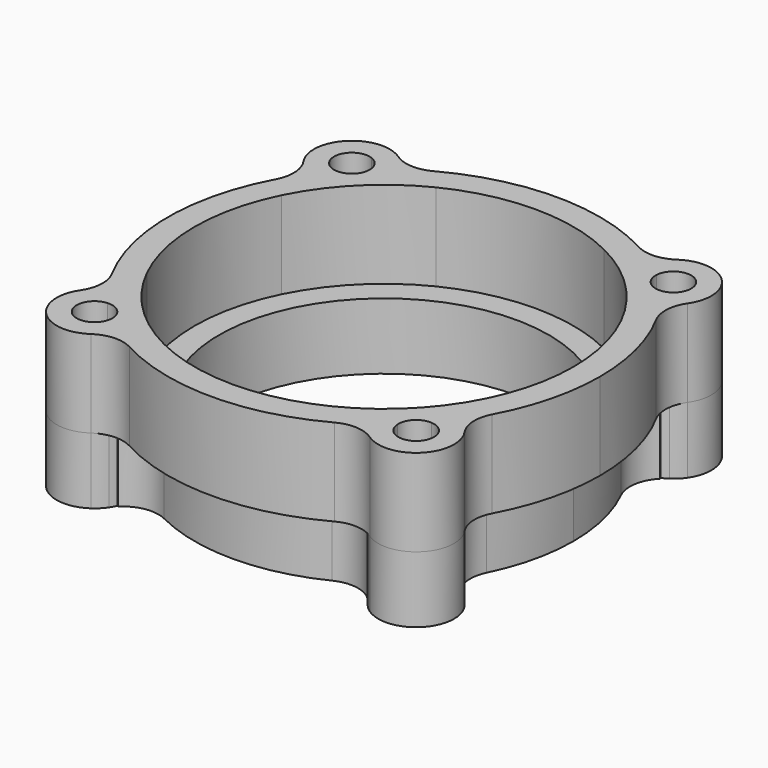
from build123d import *

# Parameters (mm, degrees)
F1_DEPTH = 5.842
F0_R     = 11.049
F2_DEPTH = 4.445


with BuildPart() as f1:
    # F0 (on Top) → F1 (new body)
    with BuildSketch(Plane.XY):
        with BuildLine():
            ThreePointArc((-11.3846753673, -5.6284248935), (-12.7, 0), (-11.3846753673, 5.6284248935))
            ThreePointArc((-11.3846753673, 5.6284248935), (-11.1673143481, 7.0633695607), (-11.8210862389, 8.3590911069))
            ThreePointArc((-11.8210862389, 8.3590911069), (-12.305930723, 7.6273555732), (-12.7455400399, 6.8675827692))
            ThreePointArc((-12.7455400399, 6.8675827692), (-14.478, 0), (-12.7455400399, -6.8675827692))
            ThreePointArc((-12.7455400399, -6.8675827692), (-12.305930723, -7.6273555732), (-11.8210862389, -8.3590911069))
            ThreePointArc((-11.8210862389, -8.3590911069), (-11.1673143481, -7.0633695607), (-11.3846753673, -5.6284248935))
        make_face()
        with BuildLine():
            ThreePointArc((-12.7455400399, 6.8675827692), (-12.305930723, 7.6273555732), (-11.8210862389, 8.3590911069))
            ThreePointArc((-11.8210862389, 8.3590911069), (-11.9992732324, 8.5230896346), (-12.1931563097, 8.6681946794))
            ThreePointArc((-12.1931563097, 8.6681946794), (-12.566298644, 8.9742165733), (-12.8748273305, 9.3452888717))
            ThreePointArc((-12.8748273305, 9.3452888717), (-12.4630799452, 8.1245477758), (-12.7455400399, 6.8675827692))
        make_face()
        with BuildLine():
            ThreePointArc((-5.6284248935, 11.3846753673), (0, 12.7), (5.6284248935, 11.3846753673))
            ThreePointArc((5.6284248935, 11.3846753673), (7.0633695607, 11.1673143481), (8.3590911069, 11.8210862389))
            ThreePointArc((8.3590911069, 11.8210862389), (7.6273555732, 12.305930723), (6.8675827692, 12.7455400399))
            ThreePointArc((6.8675827692, 12.7455400399), (0, 14.478), (-6.8675827692, 12.7455400399))
            ThreePointArc((-6.8675827692, 12.7455400399), (-7.6273555732, 12.305930723), (-8.3590911069, 11.8210862389))
            ThreePointArc((-8.3590911069, 11.8210862389), (-7.0633695607, 11.1673143481), (-5.6284248935, 11.3846753673))
        make_face()
        with BuildLine():
            ThreePointArc((11.3846753673, 5.6284248935), (12.3667978306, 2.8900365773), (12.7, 0))
            ThreePointArc((12.7, 0), (12.3667978306, -2.8900365773), (11.3846753673, -5.6284248935))
            ThreePointArc((11.3846753673, -5.6284248935), (11.1673143481, -7.0633695607), (11.8210862389, -8.3590911069))
            ThreePointArc((11.8210862389, -8.3590911069), (12.305930723, -7.6273555732), (12.7455400399, -6.8675827692))
            ThreePointArc((12.7455400399, -6.8675827692), (14.0382052396, -3.5413666361), (14.478, 0))
            ThreePointArc((14.478, 0), (14.0382052396, 3.5413666361), (12.7455400399, 6.8675827692))
            ThreePointArc((12.7455400399, 6.8675827692), (12.305930723, 7.6273555732), (11.8210862389, 8.3590911069))
            ThreePointArc((11.8210862389, 8.3590911069), (11.1673143481, 7.0633695607), (11.3846753673, 5.6284248935))
        make_face()
        with BuildLine():
            ThreePointArc((-8.6681946794, -12.1931563097), (-8.5423054226, -11.9849575881), (-8.4369136122, -11.7656692415))
            ThreePointArc((-8.4369136122, -11.7656692415), (-9.0224779178, -11.3228696108), (-9.5848435658, -10.8509565394))
            ThreePointArc((-9.5848435658, -10.8509565394), (-11.6204514207, -11.6204514207), (-10.8509565394, -9.5848435658))
            ThreePointArc((-10.8509565394, -9.5848435658), (-11.3228696108, -9.0224779178), (-11.7656692415, -8.4369136122))
            ThreePointArc((-11.7656692415, -8.4369136122), (-11.9849575881, -8.5423054226), (-12.1931563097, -8.6681946794))
            ThreePointArc((-12.1931563097, -8.6681946794), (-12.566298644, -8.9742165733), (-12.8748273305, -9.3452888717))
            ThreePointArc((-12.8748273305, -9.3452888717), (-12.5723585695, -12.5723585695), (-9.3452888717, -12.8748273305))
            ThreePointArc((-9.3452888717, -12.8748273305), (-8.9742165733, -12.566298644), (-8.6681946794, -12.1931563097))
        make_face()
        with BuildLine():
            ThreePointArc((8.3590911069, -11.8210862389), (7.0633695607, -11.1673143481), (5.6284248935, -11.3846753673))
            ThreePointArc((5.6284248935, -11.3846753673), (0, -12.7), (-5.6284248935, -11.3846753673))
            ThreePointArc((-5.6284248935, -11.3846753673), (-7.0633695607, -11.1673143481), (-8.3590911069, -11.8210862389))
            ThreePointArc((-8.3590911069, -11.8210862389), (-7.6273555732, -12.305930723), (-6.8675827692, -12.7455400399))
            ThreePointArc((-6.8675827692, -12.7455400399), (0, -14.478), (6.8675827692, -12.7455400399))
            ThreePointArc((6.8675827692, -12.7455400399), (7.6273555732, -12.305930723), (8.3590911069, -11.8210862389))
        make_face()
        with BuildLine():
            ThreePointArc((8.6681946794, -12.1931563097), (8.5230896346, -11.9992732324), (8.3590911069, -11.8210862389))
            ThreePointArc((8.3590911069, -11.8210862389), (7.6273555732, -12.305930723), (6.8675827692, -12.7455400399))
            ThreePointArc((6.8675827692, -12.7455400399), (8.1245477758, -12.4630799452), (9.3452888717, -12.8748273305))
            ThreePointArc((9.3452888717, -12.8748273305), (8.9742165733, -12.566298644), (8.6681946794, -12.1931563097))
        make_face()
        with BuildLine():
            ThreePointArc((-6.8675827692, -12.7455400399), (-7.6273555732, -12.305930723), (-8.3590911069, -11.8210862389))
            ThreePointArc((-8.3590911069, -11.8210862389), (-8.5230896346, -11.9992732324), (-8.6681946794, -12.1931563097))
            ThreePointArc((-8.6681946794, -12.1931563097), (-8.9742165733, -12.566298644), (-9.3452888717, -12.8748273305))
            ThreePointArc((-9.3452888717, -12.8748273305), (-8.1245477758, -12.4630799452), (-6.8675827692, -12.7455400399))
        make_face()
        with BuildLine():
            ThreePointArc((11.8210862389, -8.3590911069), (11.1673143481, -7.0633695607), (11.3846753673, -5.6284248935))
            ThreePointArc((11.3846753673, -5.6284248935), (8.9802561211, -8.9802561211), (5.6284248935, -11.3846753673))
            ThreePointArc((5.6284248935, -11.3846753673), (7.0633695607, -11.1673143481), (8.3590911069, -11.8210862389))
            ThreePointArc((8.3590911069, -11.8210862389), (8.3980480703, -11.7934419322), (8.4369136122, -11.7656692415))
            ThreePointArc((8.4369136122, -11.7656692415), (9.0224779178, -11.3228696108), (9.5848435658, -10.8509565394))
            ThreePointArc((9.5848435658, -10.8509565394), (9.9321632699, -9.9321632699), (10.8509565394, -9.5848435658))
            ThreePointArc((10.8509565394, -9.5848435658), (11.3228696108, -9.0224779178), (11.7656692415, -8.4369136122))
            ThreePointArc((11.7656692415, -8.4369136122), (11.7934419322, -8.3980480703), (11.8210862389, -8.3590911069))
        make_face()
        with BuildLine():
            ThreePointArc((11.8210862389, -8.3590911069), (11.1673143481, -7.0633695607), (11.3846753673, -5.6284248935))
            ThreePointArc((11.3846753673, -5.6284248935), (8.9802561211, -8.9802561211), (5.6284248935, -11.3846753673))
            ThreePointArc((5.6284248935, -11.3846753673), (7.0633695607, -11.1673143481), (8.3590911069, -11.8210862389))
            ThreePointArc((8.3590911069, -11.8210862389), (8.3980480703, -11.7934419322), (8.4369136122, -11.7656692415))
            ThreePointArc((8.4369136122, -11.7656692415), (9.0224779178, -11.3228696108), (9.5848435658, -10.8509565394))
            ThreePointArc((9.5848435658, -10.8509565394), (9.9321632699, -9.9321632699), (10.8509565394, -9.5848435658))
            ThreePointArc((10.8509565394, -9.5848435658), (11.3228696108, -9.0224779178), (11.7656692415, -8.4369136122))
            ThreePointArc((11.7656692415, -8.4369136122), (11.7934419322, -8.3980480703), (11.8210862389, -8.3590911069))
        make_face()
        with BuildLine():
            ThreePointArc((-8.3590911069, -11.8210862389), (-7.0633695607, -11.1673143481), (-5.6284248935, -11.3846753673))
            ThreePointArc((-5.6284248935, -11.3846753673), (-8.9802561211, -8.9802561211), (-11.3846753673, -5.6284248935))
            ThreePointArc((-11.3846753673, -5.6284248935), (-11.1673143481, -7.0633695607), (-11.8210862389, -8.3590911069))
            ThreePointArc((-11.8210862389, -8.3590911069), (-11.7934419322, -8.3980480703), (-11.7656692415, -8.4369136122))
            ThreePointArc((-11.7656692415, -8.4369136122), (-11.3228696108, -9.0224779178), (-10.8509565394, -9.5848435658))
            ThreePointArc((-10.8509565394, -9.5848435658), (-9.9589817577, -9.9061709629), (-9.5825073453, -10.7763073453))
            ThreePointArc((-9.5825073453, -10.7763073453), (-9.5830915434, -10.8136502164), (-9.5848435658, -10.8509565394))
            ThreePointArc((-9.5848435658, -10.8509565394), (-9.0224779178, -11.3228696108), (-8.4369136122, -11.7656692415))
            ThreePointArc((-8.4369136122, -11.7656692415), (-8.3980480703, -11.7934419322), (-8.3590911069, -11.8210862389))
        make_face()
        with BuildLine():
            ThreePointArc((-8.3590911069, -11.8210862389), (-7.0633695607, -11.1673143481), (-5.6284248935, -11.3846753673))
            ThreePointArc((-5.6284248935, -11.3846753673), (-8.9802561211, -8.9802561211), (-11.3846753673, -5.6284248935))
            ThreePointArc((-11.3846753673, -5.6284248935), (-11.1673143481, -7.0633695607), (-11.8210862389, -8.3590911069))
            ThreePointArc((-11.8210862389, -8.3590911069), (-11.7934419322, -8.3980480703), (-11.7656692415, -8.4369136122))
            ThreePointArc((-11.7656692415, -8.4369136122), (-11.3228696108, -9.0224779178), (-10.8509565394, -9.5848435658))
            ThreePointArc((-10.8509565394, -9.5848435658), (-9.9589817577, -9.9061709629), (-9.5825073453, -10.7763073453))
            ThreePointArc((-9.5825073453, -10.7763073453), (-9.5830915434, -10.8136502164), (-9.5848435658, -10.8509565394))
            ThreePointArc((-9.5848435658, -10.8509565394), (-9.0224779178, -11.3228696108), (-8.4369136122, -11.7656692415))
            ThreePointArc((-8.4369136122, -11.7656692415), (-8.3980480703, -11.7934419322), (-8.3590911069, -11.8210862389))
        make_face()
        with BuildLine():
            ThreePointArc((-8.3590911069, -11.8210862389), (-7.0633695607, -11.1673143481), (-5.6284248935, -11.3846753673))
            ThreePointArc((-5.6284248935, -11.3846753673), (-8.9802561211, -8.9802561211), (-11.3846753673, -5.6284248935))
            ThreePointArc((-11.3846753673, -5.6284248935), (-11.1673143481, -7.0633695607), (-11.8210862389, -8.3590911069))
            ThreePointArc((-11.8210862389, -8.3590911069), (-11.7934419322, -8.3980480703), (-11.7656692415, -8.4369136122))
            ThreePointArc((-11.7656692415, -8.4369136122), (-11.3228696108, -9.0224779178), (-10.8509565394, -9.5848435658))
            ThreePointArc((-10.8509565394, -9.5848435658), (-9.9589817577, -9.9061709629), (-9.5825073453, -10.7763073453))
            ThreePointArc((-9.5825073453, -10.7763073453), (-9.5830915434, -10.8136502164), (-9.5848435658, -10.8509565394))
            ThreePointArc((-9.5848435658, -10.8509565394), (-9.0224779178, -11.3228696108), (-8.4369136122, -11.7656692415))
            ThreePointArc((-8.4369136122, -11.7656692415), (-8.3980480703, -11.7934419322), (-8.3590911069, -11.8210862389))
        make_face()
        with BuildLine():
            ThreePointArc((-11.3846753673, 5.6284248935), (-8.9802561211, 8.9802561211), (-5.6284248935, 11.3846753673))
            ThreePointArc((-5.6284248935, 11.3846753673), (-7.0633695607, 11.1673143481), (-8.3590911069, 11.8210862389))
            ThreePointArc((-8.3590911069, 11.8210862389), (-8.3980480703, 11.7934419322), (-8.4369136122, 11.7656692415))
            ThreePointArc((-8.4369136122, 11.7656692415), (-9.0224779178, 11.3228696108), (-9.5848435658, 10.8509565394))
            ThreePointArc((-9.5848435658, 10.8509565394), (-9.5830915434, 10.8136502164), (-9.5825073453, 10.7763073453))
            ThreePointArc((-9.5825073453, 10.7763073453), (-9.9589817577, 9.9061709629), (-10.8509565394, 9.5848435658))
            ThreePointArc((-10.8509565394, 9.5848435658), (-11.3228696108, 9.0224779178), (-11.7656692415, 8.4369136122))
            ThreePointArc((-11.7656692415, 8.4369136122), (-11.7934419322, 8.3980480703), (-11.8210862389, 8.3590911069))
            ThreePointArc((-11.8210862389, 8.3590911069), (-11.1673143481, 7.0633695607), (-11.3846753673, 5.6284248935))
        make_face()
        with BuildLine():
            ThreePointArc((-11.3846753673, 5.6284248935), (-8.9802561211, 8.9802561211), (-5.6284248935, 11.3846753673))
            ThreePointArc((-5.6284248935, 11.3846753673), (-7.0633695607, 11.1673143481), (-8.3590911069, 11.8210862389))
            ThreePointArc((-8.3590911069, 11.8210862389), (-8.3980480703, 11.7934419322), (-8.4369136122, 11.7656692415))
            ThreePointArc((-8.4369136122, 11.7656692415), (-9.0224779178, 11.3228696108), (-9.5848435658, 10.8509565394))
            ThreePointArc((-9.5848435658, 10.8509565394), (-9.5830915434, 10.8136502164), (-9.5825073453, 10.7763073453))
            ThreePointArc((-9.5825073453, 10.7763073453), (-9.9589817577, 9.9061709629), (-10.8509565394, 9.5848435658))
            ThreePointArc((-10.8509565394, 9.5848435658), (-11.3228696108, 9.0224779178), (-11.7656692415, 8.4369136122))
            ThreePointArc((-11.7656692415, 8.4369136122), (-11.7934419322, 8.3980480703), (-11.8210862389, 8.3590911069))
            ThreePointArc((-11.8210862389, 8.3590911069), (-11.1673143481, 7.0633695607), (-11.3846753673, 5.6284248935))
        make_face()
        with BuildLine():
            ThreePointArc((-11.3846753673, 5.6284248935), (-8.9802561211, 8.9802561211), (-5.6284248935, 11.3846753673))
            ThreePointArc((-5.6284248935, 11.3846753673), (-7.0633695607, 11.1673143481), (-8.3590911069, 11.8210862389))
            ThreePointArc((-8.3590911069, 11.8210862389), (-8.3980480703, 11.7934419322), (-8.4369136122, 11.7656692415))
            ThreePointArc((-8.4369136122, 11.7656692415), (-9.0224779178, 11.3228696108), (-9.5848435658, 10.8509565394))
            ThreePointArc((-9.5848435658, 10.8509565394), (-9.5830915434, 10.8136502164), (-9.5825073453, 10.7763073453))
            ThreePointArc((-9.5825073453, 10.7763073453), (-9.9589817577, 9.9061709629), (-10.8509565394, 9.5848435658))
            ThreePointArc((-10.8509565394, 9.5848435658), (-11.3228696108, 9.0224779178), (-11.7656692415, 8.4369136122))
            ThreePointArc((-11.7656692415, 8.4369136122), (-11.7934419322, 8.3980480703), (-11.8210862389, 8.3590911069))
            ThreePointArc((-11.8210862389, 8.3590911069), (-11.1673143481, 7.0633695607), (-11.3846753673, 5.6284248935))
        make_face()
        with BuildLine():
            ThreePointArc((5.6284248935, 11.3846753673), (8.9802561211, 8.9802561211), (11.3846753673, 5.6284248935))
            ThreePointArc((11.3846753673, 5.6284248935), (11.1673143481, 7.0633695607), (11.8210862389, 8.3590911069))
            ThreePointArc((11.8210862389, 8.3590911069), (11.7934419322, 8.3980480703), (11.7656692415, 8.4369136122))
            ThreePointArc((11.7656692415, 8.4369136122), (11.3228696108, 9.0224779178), (10.8509565394, 9.5848435658))
            ThreePointArc((10.8509565394, 9.5848435658), (9.9321632699, 9.9321632699), (9.5848435658, 10.8509565394))
            ThreePointArc((9.5848435658, 10.8509565394), (9.0224779178, 11.3228696108), (8.4369136122, 11.7656692415))
            ThreePointArc((8.4369136122, 11.7656692415), (8.3980480703, 11.7934419322), (8.3590911069, 11.8210862389))
            ThreePointArc((8.3590911069, 11.8210862389), (7.0633695607, 11.1673143481), (5.6284248935, 11.3846753673))
        make_face()
        with BuildLine():
            ThreePointArc((12.7455400399, -6.8675827692), (12.305930723, -7.6273555732), (11.8210862389, -8.3590911069))
            ThreePointArc((11.8210862389, -8.3590911069), (11.9992732324, -8.5230896346), (12.1931563097, -8.6681946794))
            ThreePointArc((12.1931563097, -8.6681946794), (12.566298644, -8.9742165733), (12.8748273305, -9.3452888717))
            ThreePointArc((12.8748273305, -9.3452888717), (12.4630799452, -8.1245477758), (12.7455400399, -6.8675827692))
        make_face()
        with BuildLine():
            ThreePointArc((12.1931563097, -8.6681946794), (11.9992732324, -8.5230896346), (11.8210862389, -8.3590911069))
            ThreePointArc((11.8210862389, -8.3590911069), (11.7934419322, -8.3980480703), (11.7656692415, -8.4369136122))
            ThreePointArc((11.7656692415, -8.4369136122), (11.9849575881, -8.5423054226), (12.1931563097, -8.6681946794))
        make_face()
        with BuildLine():
            ThreePointArc((8.4369136122, -11.7656692415), (8.3980480703, -11.7934419322), (8.3590911069, -11.8210862389))
            ThreePointArc((8.3590911069, -11.8210862389), (8.5230896346, -11.9992732324), (8.6681946794, -12.1931563097))
            ThreePointArc((8.6681946794, -12.1931563097), (8.5423054226, -11.9849575881), (8.4369136122, -11.7656692415))
        make_face()
        with BuildLine():
            ThreePointArc((12.1931563097, -8.6681946794), (11.9849575881, -8.5423054226), (11.7656692415, -8.4369136122))
            ThreePointArc((11.7656692415, -8.4369136122), (11.3228696108, -9.0224779178), (10.8509565394, -9.5848435658))
            ThreePointArc((10.8509565394, -9.5848435658), (11.6464437277, -9.9589817577), (11.9701073453, -10.7763073453))
            ThreePointArc((11.9701073453, -10.7763073453), (10.8136502164, -11.9695231472), (9.5848435658, -10.8509565394))
            ThreePointArc((9.5848435658, -10.8509565394), (9.0224779178, -11.3228696108), (8.4369136122, -11.7656692415))
            ThreePointArc((8.4369136122, -11.7656692415), (8.5423054226, -11.9849575881), (8.6681946794, -12.1931563097))
            ThreePointArc((8.6681946794, -12.1931563097), (8.9742165733, -12.566298644), (9.3452888717, -12.8748273305))
            ThreePointArc((9.3452888717, -12.8748273305), (12.5723585695, -12.5723585695), (12.8748273305, -9.3452888717))
            ThreePointArc((12.8748273305, -9.3452888717), (12.566298644, -8.9742165733), (12.1931563097, -8.6681946794))
        make_face()
        with BuildLine():
            ThreePointArc((-12.1931563097, -8.6681946794), (-11.9992732324, -8.5230896346), (-11.8210862389, -8.3590911069))
            ThreePointArc((-11.8210862389, -8.3590911069), (-12.305930723, -7.6273555732), (-12.7455400399, -6.8675827692))
            ThreePointArc((-12.7455400399, -6.8675827692), (-12.4630799452, -8.1245477758), (-12.8748273305, -9.3452888717))
            ThreePointArc((-12.8748273305, -9.3452888717), (-12.566298644, -8.9742165733), (-12.1931563097, -8.6681946794))
        make_face()
        with BuildLine():
            ThreePointArc((-11.7656692415, -8.4369136122), (-11.7934419322, -8.3980480703), (-11.8210862389, -8.3590911069))
            ThreePointArc((-11.8210862389, -8.3590911069), (-11.9992732324, -8.5230896346), (-12.1931563097, -8.6681946794))
            ThreePointArc((-12.1931563097, -8.6681946794), (-11.9849575881, -8.5423054226), (-11.7656692415, -8.4369136122))
        make_face()
        with BuildLine():
            ThreePointArc((-8.6681946794, -12.1931563097), (-8.5230896346, -11.9992732324), (-8.3590911069, -11.8210862389))
            ThreePointArc((-8.3590911069, -11.8210862389), (-8.3980480703, -11.7934419322), (-8.4369136122, -11.7656692415))
            ThreePointArc((-8.4369136122, -11.7656692415), (-8.5423054226, -11.9849575881), (-8.6681946794, -12.1931563097))
        make_face()
        with BuildLine():
            ThreePointArc((-9.5848435658, 10.8509565394), (-9.0224779178, 11.3228696108), (-8.4369136122, 11.7656692415))
            ThreePointArc((-8.4369136122, 11.7656692415), (-8.5423054226, 11.9849575881), (-8.6681946794, 12.1931563097))
            ThreePointArc((-8.6681946794, 12.1931563097), (-8.9742165733, 12.566298644), (-9.3452888717, 12.8748273305))
            Line((-9.3452888717, 12.8748273305), (-10.3346938945, 11.8854223078))
            ThreePointArc((-10.3346938945, 11.8854223078), (-9.809733413, 11.4769451072), (-9.5848435658, 10.8509565394))
        make_face()
        with BuildLine():
            ThreePointArc((-8.4369136122, 11.7656692415), (-8.3980480703, 11.7934419322), (-8.3590911069, 11.8210862389))
            ThreePointArc((-8.3590911069, 11.8210862389), (-8.5230896346, 11.9992732324), (-8.6681946794, 12.1931563097))
            ThreePointArc((-8.6681946794, 12.1931563097), (-8.5423054226, 11.9849575881), (-8.4369136122, 11.7656692415))
        make_face()
        with BuildLine():
            ThreePointArc((-8.6681946794, 12.1931563097), (-8.5230896346, 11.9992732324), (-8.3590911069, 11.8210862389))
            ThreePointArc((-8.3590911069, 11.8210862389), (-7.6273555732, 12.305930723), (-6.8675827692, 12.7455400399))
            ThreePointArc((-6.8675827692, 12.7455400399), (-8.1245477758, 12.4630799452), (-9.3452888717, 12.8748273305))
            ThreePointArc((-9.3452888717, 12.8748273305), (-8.9742165733, 12.566298644), (-8.6681946794, 12.1931563097))
        make_face()
        with BuildLine():
            ThreePointArc((-12.1931563097, 8.6681946794), (-11.9992732324, 8.5230896346), (-11.8210862389, 8.3590911069))
            ThreePointArc((-11.8210862389, 8.3590911069), (-11.7934419322, 8.3980480703), (-11.7656692415, 8.4369136122))
            ThreePointArc((-11.7656692415, 8.4369136122), (-11.9849575881, 8.5423054226), (-12.1931563097, 8.6681946794))
        make_face()
        with BuildLine():
            ThreePointArc((6.8675827692, 12.7455400399), (7.6273555732, 12.305930723), (8.3590911069, 11.8210862389))
            ThreePointArc((8.3590911069, 11.8210862389), (8.5230896346, 11.9992732324), (8.6681946794, 12.1931563097))
            ThreePointArc((8.6681946794, 12.1931563097), (8.9742165733, 12.566298644), (9.3452888717, 12.8748273305))
            ThreePointArc((9.3452888717, 12.8748273305), (8.1245477758, 12.4630799452), (6.8675827692, 12.7455400399))
        make_face()
        with BuildLine():
            ThreePointArc((8.6681946794, 12.1931563097), (8.5230896346, 11.9992732324), (8.3590911069, 11.8210862389))
            ThreePointArc((8.3590911069, 11.8210862389), (8.3980480703, 11.7934419322), (8.4369136122, 11.7656692415))
            ThreePointArc((8.4369136122, 11.7656692415), (8.5423054226, 11.9849575881), (8.6681946794, 12.1931563097))
        make_face()
        with BuildLine():
            ThreePointArc((-12.1931563097, 8.6681946794), (-11.9992732324, 8.5230896346), (-11.8210862389, 8.3590911069))
            ThreePointArc((-11.8210862389, 8.3590911069), (-11.7934419322, 8.3980480703), (-11.7656692415, 8.4369136122))
            ThreePointArc((-11.7656692415, 8.4369136122), (-11.9849575881, 8.5423054226), (-12.1931563097, 8.6681946794))
        make_face()
        with BuildLine():
            ThreePointArc((-8.6681946794, -12.1931563097), (-8.5230896346, -11.9992732324), (-8.3590911069, -11.8210862389))
            ThreePointArc((-8.3590911069, -11.8210862389), (-8.3980480703, -11.7934419322), (-8.4369136122, -11.7656692415))
            ThreePointArc((-8.4369136122, -11.7656692415), (-8.5423054226, -11.9849575881), (-8.6681946794, -12.1931563097))
        make_face()
        with BuildLine():
            ThreePointArc((12.1931563097, -8.6681946794), (11.9992732324, -8.5230896346), (11.8210862389, -8.3590911069))
            ThreePointArc((11.8210862389, -8.3590911069), (11.7934419322, -8.3980480703), (11.7656692415, -8.4369136122))
            ThreePointArc((11.7656692415, -8.4369136122), (11.9849575881, -8.5423054226), (12.1931563097, -8.6681946794))
        make_face()
        with BuildLine():
            ThreePointArc((11.7656692415, 8.4369136122), (11.7934419322, 8.3980480703), (11.8210862389, 8.3590911069))
            ThreePointArc((11.8210862389, 8.3590911069), (11.9992732324, 8.5230896346), (12.1931563097, 8.6681946794))
            ThreePointArc((12.1931563097, 8.6681946794), (11.9849575881, 8.5423054226), (11.7656692415, 8.4369136122))
        make_face()
        with BuildLine():
            ThreePointArc((12.1931563097, 8.6681946794), (11.9992732324, 8.5230896346), (11.8210862389, 8.3590911069))
            ThreePointArc((11.8210862389, 8.3590911069), (12.305930723, 7.6273555732), (12.7455400399, 6.8675827692))
            ThreePointArc((12.7455400399, 6.8675827692), (12.4630799452, 8.1245477758), (12.8748273305, 9.3452888717))
            ThreePointArc((12.8748273305, 9.3452888717), (12.566298644, 8.9742165733), (12.1931563097, 8.6681946794))
        make_face()
        with BuildLine():
            Line((-10.3346938945, 11.8854223078), (-9.3452888717, 12.8748273305))
            ThreePointArc((-9.3452888717, 12.8748273305), (-12.5723585695, 12.5723585695), (-12.8748273305, 9.3452888717))
            Line((-12.8748273305, 9.3452888717), (-11.8854223078, 10.3346938945))
            ThreePointArc((-11.8854223078, 10.3346938945), (-11.6204514207, 11.6204514207), (-10.3346938945, 11.8854223078))
        make_face()
        with BuildLine():
            ThreePointArc((-12.1931563097, 8.6681946794), (-11.9849575881, 8.5423054226), (-11.7656692415, 8.4369136122))
            ThreePointArc((-11.7656692415, 8.4369136122), (-11.3228696108, 9.0224779178), (-10.8509565394, 9.5848435658))
            ThreePointArc((-10.8509565394, 9.5848435658), (-11.4769451072, 9.809733413), (-11.8854223078, 10.3346938945))
            Line((-11.8854223078, 10.3346938945), (-12.8748273305, 9.3452888717))
            ThreePointArc((-12.8748273305, 9.3452888717), (-12.566298644, 8.9742165733), (-12.1931563097, 8.6681946794))
        make_face()
        with BuildLine():
            ThreePointArc((10.8509565394, 9.5848435658), (11.3228696108, 9.0224779178), (11.7656692415, 8.4369136122))
            ThreePointArc((11.7656692415, 8.4369136122), (11.9849575881, 8.5423054226), (12.1931563097, 8.6681946794))
            ThreePointArc((12.1931563097, 8.6681946794), (12.566298644, 8.9742165733), (12.8748273305, 9.3452888717))
            ThreePointArc((12.8748273305, 9.3452888717), (12.5723585695, 12.5723585695), (9.3452888717, 12.8748273305))
            ThreePointArc((9.3452888717, 12.8748273305), (8.9742165733, 12.566298644), (8.6681946794, 12.1931563097))
            ThreePointArc((8.6681946794, 12.1931563097), (8.5423054226, 11.9849575881), (8.4369136122, 11.7656692415))
            ThreePointArc((8.4369136122, 11.7656692415), (9.0224779178, 11.3228696108), (9.5848435658, 10.8509565394))
            ThreePointArc((9.5848435658, 10.8509565394), (10.8136502164, 11.9695231472), (11.9701073453, 10.7763073453))
            ThreePointArc((11.9701073453, 10.7763073453), (11.6464437277, 9.9589817577), (10.8509565394, 9.5848435658))
        make_face()
    extrude(amount=F1_DEPTH)


with BuildPart() as f2:
    # F0 (on Top) → F2 (new body)
    with BuildSketch(Plane.XY):
        with BuildLine():
            ThreePointArc((-9.5848435658, 10.8509565394), (-9.0224779178, 11.3228696108), (-8.4369136122, 11.7656692415))
            ThreePointArc((-8.4369136122, 11.7656692415), (-8.5423054226, 11.9849575881), (-8.6681946794, 12.1931563097))
            ThreePointArc((-8.6681946794, 12.1931563097), (-8.9742165733, 12.566298644), (-9.3452888717, 12.8748273305))
            Line((-9.3452888717, 12.8748273305), (-10.3346938945, 11.8854223078))
            ThreePointArc((-10.3346938945, 11.8854223078), (-9.809733413, 11.4769451072), (-9.5848435658, 10.8509565394))
        make_face()
        with BuildLine():
            ThreePointArc((-8.6681946794, -12.1931563097), (-8.5423054226, -11.9849575881), (-8.4369136122, -11.7656692415))
            ThreePointArc((-8.4369136122, -11.7656692415), (-9.0224779178, -11.3228696108), (-9.5848435658, -10.8509565394))
            ThreePointArc((-9.5848435658, -10.8509565394), (-11.6204514207, -11.6204514207), (-10.8509565394, -9.5848435658))
            ThreePointArc((-10.8509565394, -9.5848435658), (-11.3228696108, -9.0224779178), (-11.7656692415, -8.4369136122))
            ThreePointArc((-11.7656692415, -8.4369136122), (-11.9849575881, -8.5423054226), (-12.1931563097, -8.6681946794))
            ThreePointArc((-12.1931563097, -8.6681946794), (-12.566298644, -8.9742165733), (-12.8748273305, -9.3452888717))
            ThreePointArc((-12.8748273305, -9.3452888717), (-12.5723585695, -12.5723585695), (-9.3452888717, -12.8748273305))
            ThreePointArc((-9.3452888717, -12.8748273305), (-8.9742165733, -12.566298644), (-8.6681946794, -12.1931563097))
        make_face()
        with BuildLine():
            ThreePointArc((12.1931563097, -8.6681946794), (11.9849575881, -8.5423054226), (11.7656692415, -8.4369136122))
            ThreePointArc((11.7656692415, -8.4369136122), (11.3228696108, -9.0224779178), (10.8509565394, -9.5848435658))
            ThreePointArc((10.8509565394, -9.5848435658), (11.6464437277, -9.9589817577), (11.9701073453, -10.7763073453))
            ThreePointArc((11.9701073453, -10.7763073453), (10.8136502164, -11.9695231472), (9.5848435658, -10.8509565394))
            ThreePointArc((9.5848435658, -10.8509565394), (9.0224779178, -11.3228696108), (8.4369136122, -11.7656692415))
            ThreePointArc((8.4369136122, -11.7656692415), (8.5423054226, -11.9849575881), (8.6681946794, -12.1931563097))
            ThreePointArc((8.6681946794, -12.1931563097), (8.9742165733, -12.566298644), (9.3452888717, -12.8748273305))
            ThreePointArc((9.3452888717, -12.8748273305), (12.5723585695, -12.5723585695), (12.8748273305, -9.3452888717))
            ThreePointArc((12.8748273305, -9.3452888717), (12.566298644, -8.9742165733), (12.1931563097, -8.6681946794))
        make_face()
        with BuildLine():
            ThreePointArc((11.3846753673, -5.6284248935), (12.3667978306, -2.8900365773), (12.7, 0))
            ThreePointArc((12.7, 0), (12.3667978306, 2.8900365773), (11.3846753673, 5.6284248935))
            ThreePointArc((11.3846753673, 5.6284248935), (8.9802561211, 8.9802561211), (5.6284248935, 11.3846753673))
            ThreePointArc((5.6284248935, 11.3846753673), (0, 12.7), (-5.6284248935, 11.3846753673))
            ThreePointArc((-5.6284248935, 11.3846753673), (-8.9802561211, 8.9802561211), (-11.3846753673, 5.6284248935))
            ThreePointArc((-11.3846753673, 5.6284248935), (-12.7, 0), (-11.3846753673, -5.6284248935))
            ThreePointArc((-11.3846753673, -5.6284248935), (-8.9802561211, -8.9802561211), (-5.6284248935, -11.3846753673))
            ThreePointArc((-5.6284248935, -11.3846753673), (0, -12.7), (5.6284248935, -11.3846753673))
            ThreePointArc((5.6284248935, -11.3846753673), (8.9802561211, -8.9802561211), (11.3846753673, -5.6284248935))
        make_face()
        Circle(F0_R, mode=Mode.SUBTRACT)
        with BuildLine():
            ThreePointArc((-8.3590911069, -11.8210862389), (-7.0633695607, -11.1673143481), (-5.6284248935, -11.3846753673))
            ThreePointArc((-5.6284248935, -11.3846753673), (-8.9802561211, -8.9802561211), (-11.3846753673, -5.6284248935))
            ThreePointArc((-11.3846753673, -5.6284248935), (-11.1673143481, -7.0633695607), (-11.8210862389, -8.3590911069))
            ThreePointArc((-11.8210862389, -8.3590911069), (-11.7934419322, -8.3980480703), (-11.7656692415, -8.4369136122))
            ThreePointArc((-11.7656692415, -8.4369136122), (-11.3228696108, -9.0224779178), (-10.8509565394, -9.5848435658))
            ThreePointArc((-10.8509565394, -9.5848435658), (-9.9589817577, -9.9061709629), (-9.5825073453, -10.7763073453))
            ThreePointArc((-9.5825073453, -10.7763073453), (-9.5830915434, -10.8136502164), (-9.5848435658, -10.8509565394))
            ThreePointArc((-9.5848435658, -10.8509565394), (-9.0224779178, -11.3228696108), (-8.4369136122, -11.7656692415))
            ThreePointArc((-8.4369136122, -11.7656692415), (-8.3980480703, -11.7934419322), (-8.3590911069, -11.8210862389))
        make_face()
        with BuildLine():
            ThreePointArc((-8.3590911069, -11.8210862389), (-7.0633695607, -11.1673143481), (-5.6284248935, -11.3846753673))
            ThreePointArc((-5.6284248935, -11.3846753673), (-8.9802561211, -8.9802561211), (-11.3846753673, -5.6284248935))
            ThreePointArc((-11.3846753673, -5.6284248935), (-11.1673143481, -7.0633695607), (-11.8210862389, -8.3590911069))
            ThreePointArc((-11.8210862389, -8.3590911069), (-11.7934419322, -8.3980480703), (-11.7656692415, -8.4369136122))
            ThreePointArc((-11.7656692415, -8.4369136122), (-11.3228696108, -9.0224779178), (-10.8509565394, -9.5848435658))
            ThreePointArc((-10.8509565394, -9.5848435658), (-9.9589817577, -9.9061709629), (-9.5825073453, -10.7763073453))
            ThreePointArc((-9.5825073453, -10.7763073453), (-9.5830915434, -10.8136502164), (-9.5848435658, -10.8509565394))
            ThreePointArc((-9.5848435658, -10.8509565394), (-9.0224779178, -11.3228696108), (-8.4369136122, -11.7656692415))
            ThreePointArc((-8.4369136122, -11.7656692415), (-8.3980480703, -11.7934419322), (-8.3590911069, -11.8210862389))
        make_face()
        with BuildLine():
            ThreePointArc((-8.3590911069, -11.8210862389), (-7.0633695607, -11.1673143481), (-5.6284248935, -11.3846753673))
            ThreePointArc((-5.6284248935, -11.3846753673), (-8.9802561211, -8.9802561211), (-11.3846753673, -5.6284248935))
            ThreePointArc((-11.3846753673, -5.6284248935), (-11.1673143481, -7.0633695607), (-11.8210862389, -8.3590911069))
            ThreePointArc((-11.8210862389, -8.3590911069), (-11.7934419322, -8.3980480703), (-11.7656692415, -8.4369136122))
            ThreePointArc((-11.7656692415, -8.4369136122), (-11.3228696108, -9.0224779178), (-10.8509565394, -9.5848435658))
            ThreePointArc((-10.8509565394, -9.5848435658), (-9.9589817577, -9.9061709629), (-9.5825073453, -10.7763073453))
            ThreePointArc((-9.5825073453, -10.7763073453), (-9.5830915434, -10.8136502164), (-9.5848435658, -10.8509565394))
            ThreePointArc((-9.5848435658, -10.8509565394), (-9.0224779178, -11.3228696108), (-8.4369136122, -11.7656692415))
            ThreePointArc((-8.4369136122, -11.7656692415), (-8.3980480703, -11.7934419322), (-8.3590911069, -11.8210862389))
        make_face()
        with BuildLine():
            ThreePointArc((5.6284248935, 11.3846753673), (8.9802561211, 8.9802561211), (11.3846753673, 5.6284248935))
            ThreePointArc((11.3846753673, 5.6284248935), (11.1673143481, 7.0633695607), (11.8210862389, 8.3590911069))
            ThreePointArc((11.8210862389, 8.3590911069), (11.7934419322, 8.3980480703), (11.7656692415, 8.4369136122))
            ThreePointArc((11.7656692415, 8.4369136122), (11.3228696108, 9.0224779178), (10.8509565394, 9.5848435658))
            ThreePointArc((10.8509565394, 9.5848435658), (9.9321632699, 9.9321632699), (9.5848435658, 10.8509565394))
            ThreePointArc((9.5848435658, 10.8509565394), (9.0224779178, 11.3228696108), (8.4369136122, 11.7656692415))
            ThreePointArc((8.4369136122, 11.7656692415), (8.3980480703, 11.7934419322), (8.3590911069, 11.8210862389))
            ThreePointArc((8.3590911069, 11.8210862389), (7.0633695607, 11.1673143481), (5.6284248935, 11.3846753673))
        make_face()
        with BuildLine():
            ThreePointArc((11.8210862389, -8.3590911069), (11.1673143481, -7.0633695607), (11.3846753673, -5.6284248935))
            ThreePointArc((11.3846753673, -5.6284248935), (8.9802561211, -8.9802561211), (5.6284248935, -11.3846753673))
            ThreePointArc((5.6284248935, -11.3846753673), (7.0633695607, -11.1673143481), (8.3590911069, -11.8210862389))
            ThreePointArc((8.3590911069, -11.8210862389), (8.3980480703, -11.7934419322), (8.4369136122, -11.7656692415))
            ThreePointArc((8.4369136122, -11.7656692415), (9.0224779178, -11.3228696108), (9.5848435658, -10.8509565394))
            ThreePointArc((9.5848435658, -10.8509565394), (9.9321632699, -9.9321632699), (10.8509565394, -9.5848435658))
            ThreePointArc((10.8509565394, -9.5848435658), (11.3228696108, -9.0224779178), (11.7656692415, -8.4369136122))
            ThreePointArc((11.7656692415, -8.4369136122), (11.7934419322, -8.3980480703), (11.8210862389, -8.3590911069))
        make_face()
        with BuildLine():
            ThreePointArc((11.8210862389, -8.3590911069), (11.1673143481, -7.0633695607), (11.3846753673, -5.6284248935))
            ThreePointArc((11.3846753673, -5.6284248935), (8.9802561211, -8.9802561211), (5.6284248935, -11.3846753673))
            ThreePointArc((5.6284248935, -11.3846753673), (7.0633695607, -11.1673143481), (8.3590911069, -11.8210862389))
            ThreePointArc((8.3590911069, -11.8210862389), (8.3980480703, -11.7934419322), (8.4369136122, -11.7656692415))
            ThreePointArc((8.4369136122, -11.7656692415), (9.0224779178, -11.3228696108), (9.5848435658, -10.8509565394))
            ThreePointArc((9.5848435658, -10.8509565394), (9.9321632699, -9.9321632699), (10.8509565394, -9.5848435658))
            ThreePointArc((10.8509565394, -9.5848435658), (11.3228696108, -9.0224779178), (11.7656692415, -8.4369136122))
            ThreePointArc((11.7656692415, -8.4369136122), (11.7934419322, -8.3980480703), (11.8210862389, -8.3590911069))
        make_face()
        with BuildLine():
            ThreePointArc((11.8210862389, -8.3590911069), (11.1673143481, -7.0633695607), (11.3846753673, -5.6284248935))
            ThreePointArc((11.3846753673, -5.6284248935), (8.9802561211, -8.9802561211), (5.6284248935, -11.3846753673))
            ThreePointArc((5.6284248935, -11.3846753673), (7.0633695607, -11.1673143481), (8.3590911069, -11.8210862389))
            ThreePointArc((8.3590911069, -11.8210862389), (8.3980480703, -11.7934419322), (8.4369136122, -11.7656692415))
            ThreePointArc((8.4369136122, -11.7656692415), (9.0224779178, -11.3228696108), (9.5848435658, -10.8509565394))
            ThreePointArc((9.5848435658, -10.8509565394), (9.9321632699, -9.9321632699), (10.8509565394, -9.5848435658))
            ThreePointArc((10.8509565394, -9.5848435658), (11.3228696108, -9.0224779178), (11.7656692415, -8.4369136122))
            ThreePointArc((11.7656692415, -8.4369136122), (11.7934419322, -8.3980480703), (11.8210862389, -8.3590911069))
        make_face()
        with BuildLine():
            ThreePointArc((-11.3846753673, 5.6284248935), (-8.9802561211, 8.9802561211), (-5.6284248935, 11.3846753673))
            ThreePointArc((-5.6284248935, 11.3846753673), (-7.0633695607, 11.1673143481), (-8.3590911069, 11.8210862389))
            ThreePointArc((-8.3590911069, 11.8210862389), (-8.3980480703, 11.7934419322), (-8.4369136122, 11.7656692415))
            ThreePointArc((-8.4369136122, 11.7656692415), (-9.0224779178, 11.3228696108), (-9.5848435658, 10.8509565394))
            ThreePointArc((-9.5848435658, 10.8509565394), (-9.5830915434, 10.8136502164), (-9.5825073453, 10.7763073453))
            ThreePointArc((-9.5825073453, 10.7763073453), (-9.9589817577, 9.9061709629), (-10.8509565394, 9.5848435658))
            ThreePointArc((-10.8509565394, 9.5848435658), (-11.3228696108, 9.0224779178), (-11.7656692415, 8.4369136122))
            ThreePointArc((-11.7656692415, 8.4369136122), (-11.7934419322, 8.3980480703), (-11.8210862389, 8.3590911069))
            ThreePointArc((-11.8210862389, 8.3590911069), (-11.1673143481, 7.0633695607), (-11.3846753673, 5.6284248935))
        make_face()
        with BuildLine():
            ThreePointArc((-11.3846753673, 5.6284248935), (-8.9802561211, 8.9802561211), (-5.6284248935, 11.3846753673))
            ThreePointArc((-5.6284248935, 11.3846753673), (-7.0633695607, 11.1673143481), (-8.3590911069, 11.8210862389))
            ThreePointArc((-8.3590911069, 11.8210862389), (-8.3980480703, 11.7934419322), (-8.4369136122, 11.7656692415))
            ThreePointArc((-8.4369136122, 11.7656692415), (-9.0224779178, 11.3228696108), (-9.5848435658, 10.8509565394))
            ThreePointArc((-9.5848435658, 10.8509565394), (-9.5830915434, 10.8136502164), (-9.5825073453, 10.7763073453))
            ThreePointArc((-9.5825073453, 10.7763073453), (-9.9589817577, 9.9061709629), (-10.8509565394, 9.5848435658))
            ThreePointArc((-10.8509565394, 9.5848435658), (-11.3228696108, 9.0224779178), (-11.7656692415, 8.4369136122))
            ThreePointArc((-11.7656692415, 8.4369136122), (-11.7934419322, 8.3980480703), (-11.8210862389, 8.3590911069))
            ThreePointArc((-11.8210862389, 8.3590911069), (-11.1673143481, 7.0633695607), (-11.3846753673, 5.6284248935))
        make_face()
        with BuildLine():
            Line((-10.3346938945, 11.8854223078), (-9.3452888717, 12.8748273305))
            ThreePointArc((-9.3452888717, 12.8748273305), (-12.5723585695, 12.5723585695), (-12.8748273305, 9.3452888717))
            Line((-12.8748273305, 9.3452888717), (-11.8854223078, 10.3346938945))
            ThreePointArc((-11.8854223078, 10.3346938945), (-11.6204514207, 11.6204514207), (-10.3346938945, 11.8854223078))
        make_face()
        with BuildLine():
            ThreePointArc((-12.1931563097, 8.6681946794), (-11.9849575881, 8.5423054226), (-11.7656692415, 8.4369136122))
            ThreePointArc((-11.7656692415, 8.4369136122), (-11.3228696108, 9.0224779178), (-10.8509565394, 9.5848435658))
            ThreePointArc((-10.8509565394, 9.5848435658), (-11.4769451072, 9.809733413), (-11.8854223078, 10.3346938945))
            Line((-11.8854223078, 10.3346938945), (-12.8748273305, 9.3452888717))
            ThreePointArc((-12.8748273305, 9.3452888717), (-12.566298644, 8.9742165733), (-12.1931563097, 8.6681946794))
        make_face()
        with BuildLine():
            ThreePointArc((10.8509565394, 9.5848435658), (11.3228696108, 9.0224779178), (11.7656692415, 8.4369136122))
            ThreePointArc((11.7656692415, 8.4369136122), (11.9849575881, 8.5423054226), (12.1931563097, 8.6681946794))
            ThreePointArc((12.1931563097, 8.6681946794), (12.566298644, 8.9742165733), (12.8748273305, 9.3452888717))
            ThreePointArc((12.8748273305, 9.3452888717), (12.5723585695, 12.5723585695), (9.3452888717, 12.8748273305))
            ThreePointArc((9.3452888717, 12.8748273305), (8.9742165733, 12.566298644), (8.6681946794, 12.1931563097))
            ThreePointArc((8.6681946794, 12.1931563097), (8.5423054226, 11.9849575881), (8.4369136122, 11.7656692415))
            ThreePointArc((8.4369136122, 11.7656692415), (9.0224779178, 11.3228696108), (9.5848435658, 10.8509565394))
            ThreePointArc((9.5848435658, 10.8509565394), (10.8136502164, 11.9695231472), (11.9701073453, 10.7763073453))
            ThreePointArc((11.9701073453, 10.7763073453), (11.6464437277, 9.9589817577), (10.8509565394, 9.5848435658))
        make_face()
    extrude(amount=-F2_DEPTH)


solid = Compound([f1.part, f2.part])
